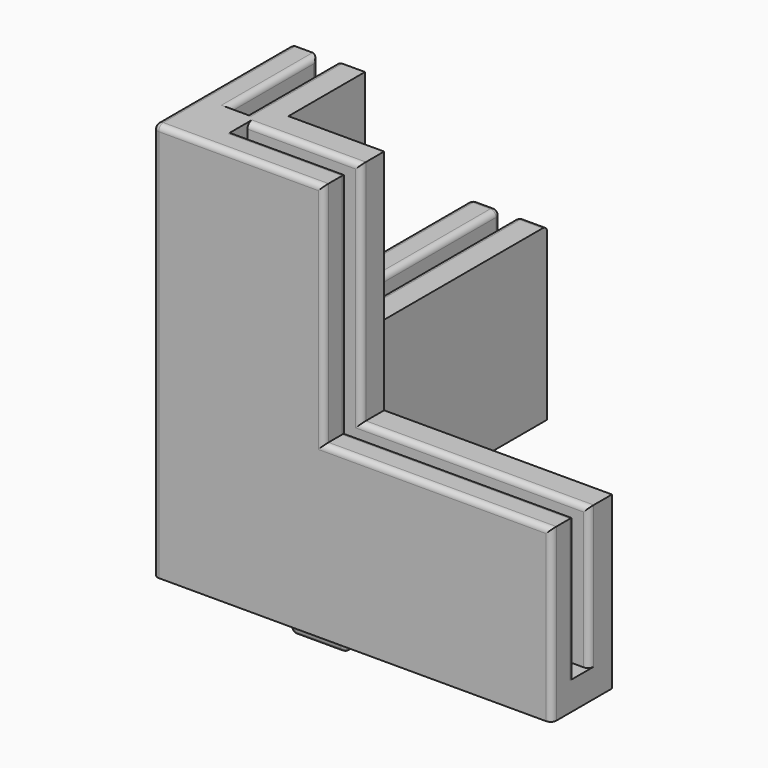
from build123d import *

# Parameters (mm, degrees)
PAD_DEPTH    = 5
PAD001_DEPTH = 25
PAD002_DEPTH = 65
FILLET_R     = 1
SKETCH003_W  = 13.3
SKETCH003_H  = 13.3
PAD003_DEPTH = 10
SKETCH004_W  = 10
SKETCH004_H  = 10
PAD004_DEPTH = 10
FILLET001_R  = 1


with BuildPart() as body:
    # Sketch → Pad (new body)
    with BuildSketch(Plane.XY):
        Polygon((0, 0), (70, 0), (70, 13.2), (13.2, 13.2), (13.2, 70), (0, 70), align=None)
    extrude(amount=PAD_DEPTH)

    # Sketch001 (on DatumPlane) → Pad001 (join)
    with BuildSketch(Plane.XY.offset(5)):
        Polygon((0, 0), (70, 0), (70, 5), (10, 5), (10, 8.2), (70, 8.2), (70, 13.2), (13.2, 13.2), (13.2, 70), (8.2, 70), (8.2, 10), (5, 10), (5, 70), (0, 70), align=None)
    extrude(amount=PAD001_DEPTH)

    # Sketch002 (on DatumPlane) → Pad002 (join)
    with BuildSketch(Plane.XY.offset(5)):
        Polygon((0, 0), (30, 0), (30, 5), (10, 5), (10, 8.2), (30, 8.2), (30, 13.2), (13.2, 13.2), (13.2, 30), (8.2, 30), (8.2, 10), (5, 10), (5, 30), (0, 30), align=None)
    extrude(amount=PAD002_DEPTH)

    # Fillet
    fillet_edges = [body.edges().sort_by_distance(p)[0] for p in [
        (2.5, 70, 30),
        (10.7, 70, 30),
        (8.2, 70, 17.5),
        (5, 70, 17.5),
        (5, 50, 30),
        (8.2, 50, 30),
        (0, 70, 15),
        (0, 50, 30),
        (0, 30, 50),
        (5, 30, 50),
        (8.2, 30, 50),
        (0, 15, 70),
        (5, 20, 70),
        (8.2, 20, 70),
        (15, 0, 70),
        (20, 5, 70),
        (20, 8.2, 70),
        (30, 8.2, 50),
        (50, 8.2, 30),
        (50, 5, 30),
        (30, 5, 50),
        (30, 0, 50),
        (50, 0, 30),
        (70, 0, 15),
        (70, 5, 17.5),
        (70, 8.2, 17.5),
        (0, 0, 35),
    ]]
    fillet(fillet_edges, radius=FILLET_R)


with BuildPart() as body001:
    # Sketch003 → Pad003 (new body)
    with BuildSketch(Plane.XY):
        with Locations((16.65, 16.65)):
            Rectangle(SKETCH003_W, SKETCH003_H)
    extrude(amount=PAD003_DEPTH)

    # Sketch004 → Pad004 (join)
    with BuildSketch(Plane.XY):
        with Locations((18.3, 18.3)):
            Rectangle(SKETCH004_W, SKETCH004_H)
    extrude(amount=-PAD004_DEPTH)

    # Fillet001
    fillet001_edges = [body001.edges().sort_by_distance(p)[0] for p in [
        (13.3, 13.3, -5),
        (13.3, 23.3, -5),
        (18.3, 23.3, -10),
        (13.3, 18.3, -10),
        (18.3, 13.3, -10),
        (23.3, 18.3, -10),
        (23.3, 13.3, -5),
    ]]
    fillet(fillet001_edges, radius=FILLET001_R)


solid = Compound([body.part, body001.part])
